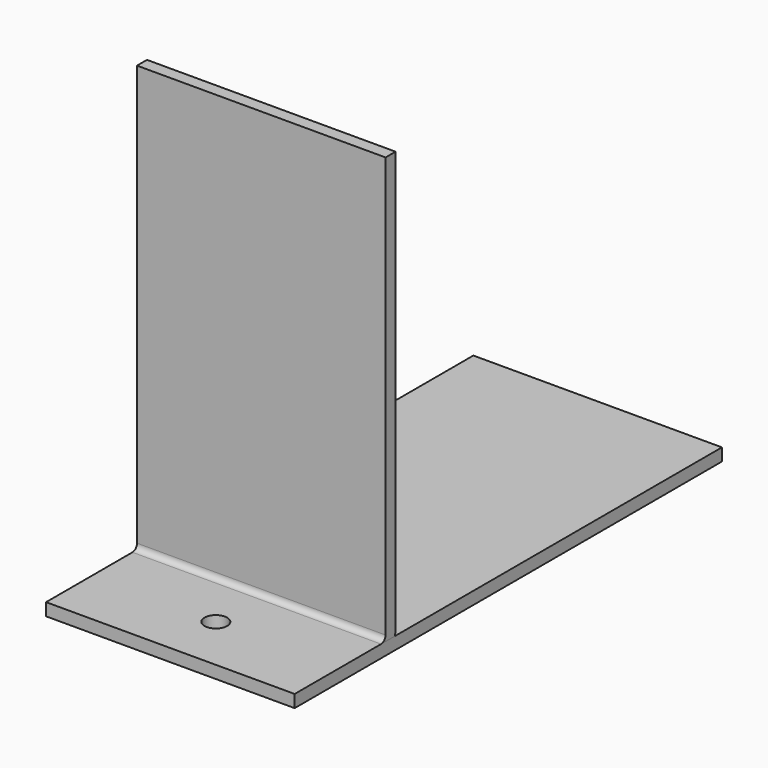
from build123d import *

# Parameters (mm, degrees)
F1_DEPTH = 55.5625
F2_R     = 2.54
F3_DEPTH = 25.4
F4_DEPTH = 119.38
F5_R     = 2.54
F6_DEPTH = 25.4


with BuildPart() as f1:
    # F0 (on Right) → F1 (new body)
    with BuildSketch(Plane.YZ):
        with BuildLine():
            Line((24.13, 0), (0, 0))
            Line((0, 0), (0, -2.794))
            Line((0, -2.794), (24.13, -2.794))
            ThreePointArc((24.13, -2.794), (27.0036819587, -1.6036819587), (28.194, 1.27))
            Line((28.194, 1.27), (28.194, 95.25))
            Line((28.194, 95.25), (25.4, 95.25))
            Line((25.4, 95.25), (25.4, 1.27))
            ThreePointArc((25.4, 1.27), (25.0280256121, 0.3719743879), (24.13, 0))
        make_face()
    extrude(amount=F1_DEPTH)

    # F2 (on face) → F3 (cut)
    with BuildSketch(Plane.XY):
        with Locations((27.78125, 12.7)):
            Circle(F2_R)
    extrude(amount=-F3_DEPTH, mode=Mode.SUBTRACT)


with BuildPart() as f4:
    # F4 (new): a face of the model
    f4_faces = [f1.part.faces().sort_by_distance(p)[0] for p in [
        (27.78125, 0, -1.397),
    ]]
    extrude(f4_faces, amount=-F4_DEPTH)

    # F5 (on face) → F6 (cut)
    with BuildSketch(Plane.XY):
        with Locations((27.78125, 12.7)):
            Circle(F5_R)
    extrude(amount=-F6_DEPTH, mode=Mode.SUBTRACT)


solid = Compound([f1.part, f4.part])
